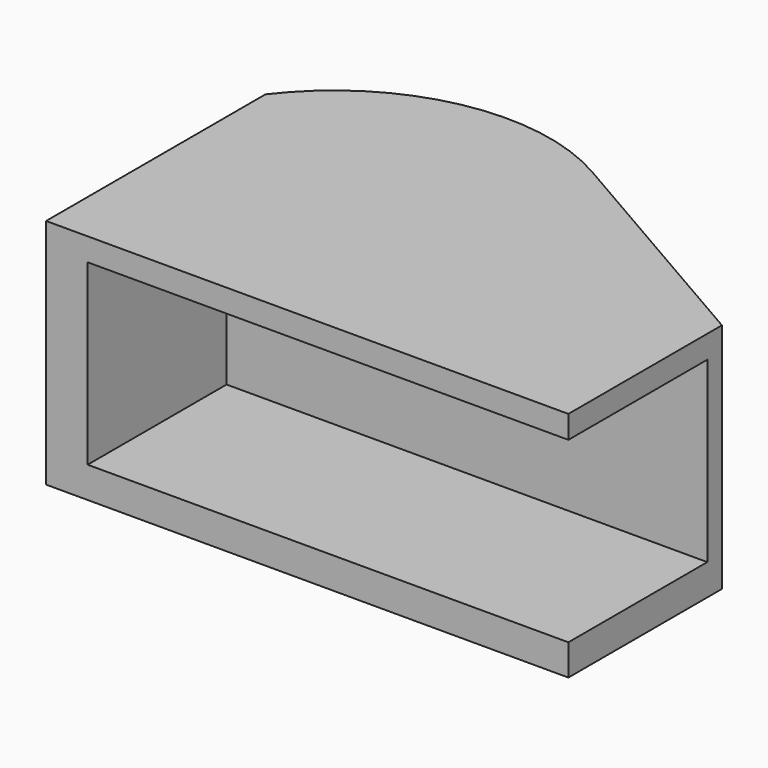
from build123d import *

# Parameters (mm, degrees)
F1_DEPTH = 25.4
F2_W     = 52.6
F2_H     = 19.5
F3_DEPTH = 19


with BuildPart() as f1:
    # F0 (on Top) → F1 (new body)
    with BuildSketch(Plane.XY):
        with BuildLine():
            Line((0, 30), (0, 0))
            Line((0, 0), (57.15, 0))
            Line((57.15, 0), (57.15, 21))
            Line((57.15, 21), (30.746157, 36.244266))
            ThreePointArc((30.746157, 36.244266), (14.190828, 38.943421), (0, 30))
        make_face()
    extrude(amount=F1_DEPTH)

    # F2 (on face) → F3 (cut)
    with BuildSketch(Plane.XZ):
        with Locations((30.85, 13.15)):
            Rectangle(F2_W, F2_H)
    extrude(amount=-F3_DEPTH, mode=Mode.SUBTRACT)


solid = f1.part
